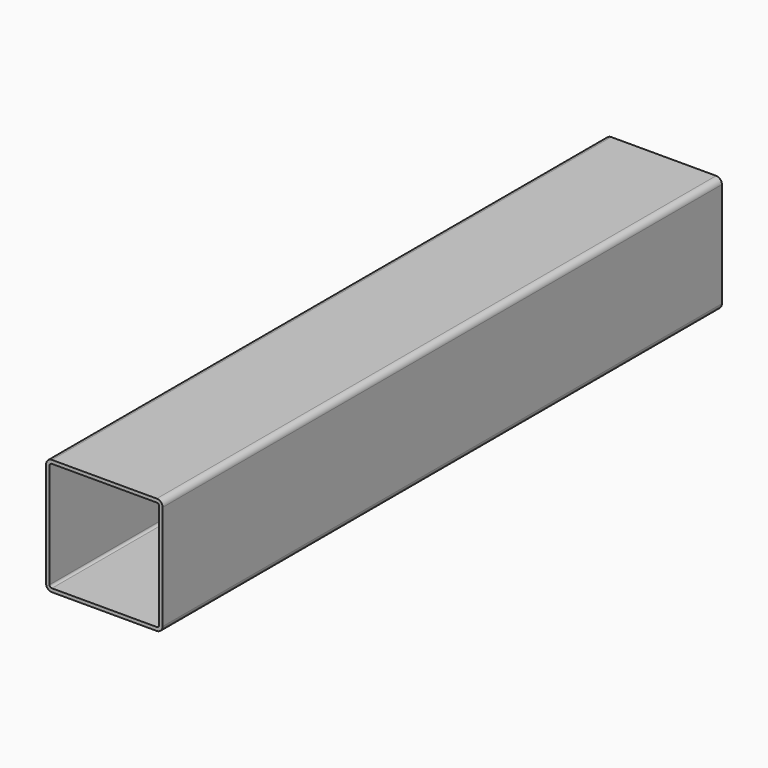
from build123d import *

# Parameters (mm, degrees)
F1_DEPTH = 600


with BuildPart() as f1:
    # F0 (on Front) → F1 (new body)
    with BuildSketch(Plane.XZ):
        with BuildLine():
            ThreePointArc((50, 45), (48.535534, 48.535534), (45, 50))
            Line((45, 50), (-45, 50))
            ThreePointArc((-45, 50), (-48.535534, 48.535534), (-50, 45))
            Line((-50, 45), (-50, -45))
            ThreePointArc((-50, -45), (-48.535534, -48.535534), (-45, -50))
            Line((-45, -50), (45, -50))
            ThreePointArc((45, -50), (48.535534, -48.535534), (50, -45))
            Line((50, -45), (50, 45))
        make_face()
        with BuildLine():
            ThreePointArc((-47, 45), (-46.414214, 46.414214), (-45, 47))
            Line((-45, 47), (45, 47))
            ThreePointArc((45, 47), (46.414214, 46.414214), (47, 45))
            Line((47, 45), (47, -45))
            ThreePointArc((47, -45), (46.414214, -46.414214), (45, -47))
            Line((45, -47), (-45, -47))
            ThreePointArc((-45, -47), (-46.414214, -46.414214), (-47, -45))
            Line((-47, -45), (-47, 45))
        make_face(mode=Mode.SUBTRACT)
    extrude(amount=-F1_DEPTH)


solid = f1.part
